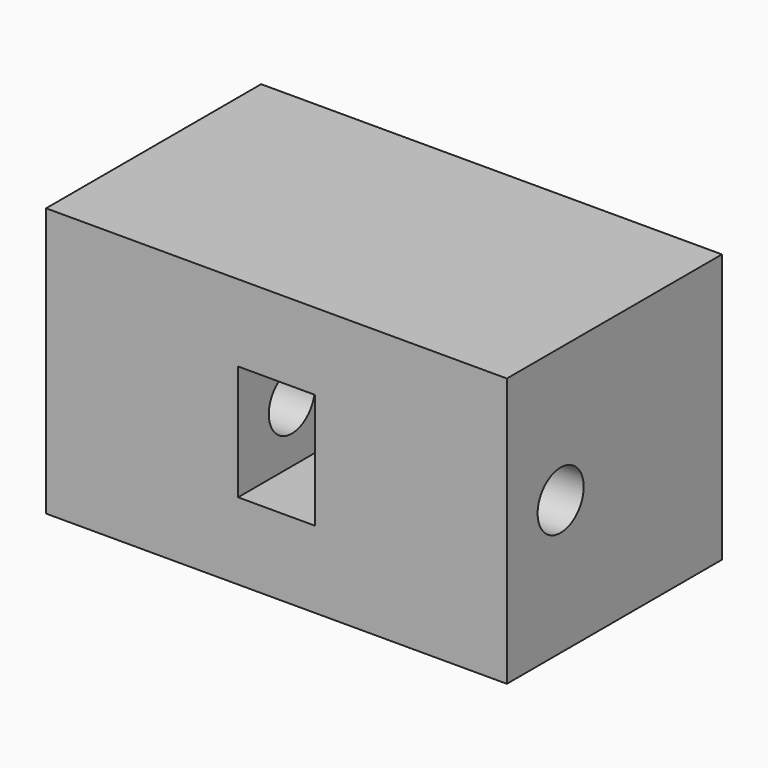
from build123d import *

# Parameters (mm, degrees)
SKETCH087_W      = 12
SKETCH087_H      = 7
EXTRUDE007_DEPTH = 7
SKETCH088_W      = 2
SKETCH088_H      = 3
POCKET018_DEPTH  = 3.5
SKETCH089_R      = 0.75
HOLE018_DEPTH    = 12
HOLE018_TIPS_R   = 0.75


with BuildPart() as part:
    # Sketch087 → Extrude007 (new body)
    with BuildSketch(Plane.XY):
        with Locations((-134, -113.5)):
            Rectangle(SKETCH087_W, SKETCH087_H)
    extrude(amount=EXTRUDE007_DEPTH)

    # Sketch088 (on Face3 of Extrude007) → Pocket018 (cut)
    with BuildSketch(Plane.XZ.offset(117)):
        with Locations((-134, 3.5)):
            Rectangle(SKETCH088_W, SKETCH088_H)
    extrude(amount=-POCKET018_DEPTH, mode=Mode.SUBTRACT)

    # Sketch089 (on Face3 of Pocket018) → Hole018 (cut)
    with BuildSketch(Plane.YZ.offset(-128)):
        with Locations((-115.249997, 3.5)):
            Circle(SKETCH089_R)
    extrude(amount=-HOLE018_DEPTH, mode=Mode.SUBTRACT)

    # Hole018 tips → Hole018 tip 1 section 0
    with BuildSketch(Plane.YZ.offset(-140), mode=Mode.PRIVATE) as hole018_tip_1_s0:
        with Locations((-115.249997, 3.5)):
            Circle(HOLE018_TIPS_R)
    loft([hole018_tip_1_s0.sketch, Vertex(-140.450645, -115.249997, 3.5)], mode=Mode.SUBTRACT)


solid = part.part
